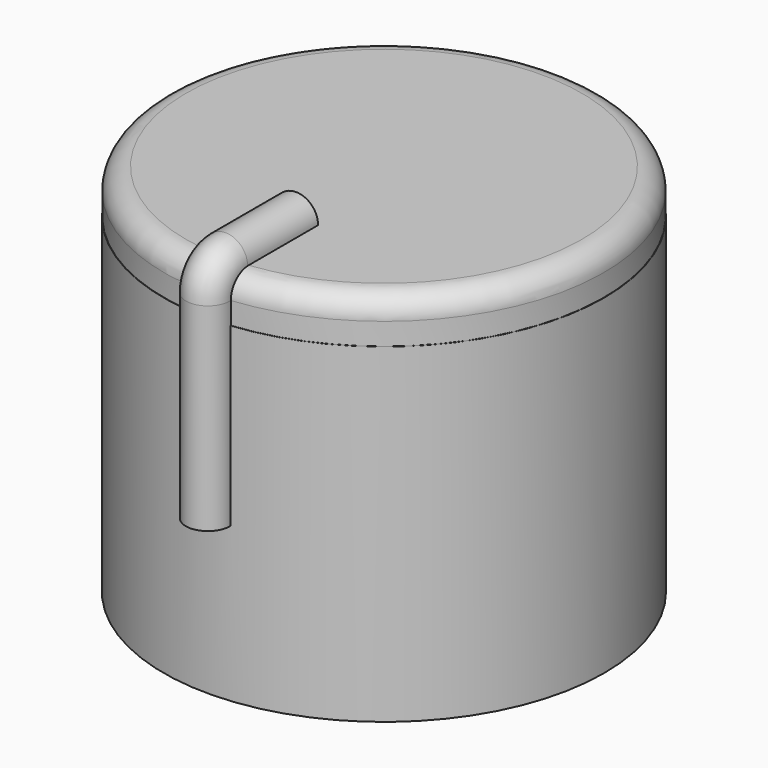
from build123d import *

# Parameters (mm, degrees)
F0_R     = 10
F1_DEPTH = 15
F2_R     = 9.9864299767
F9_DEPTH = 2
F3_R     = 1
F4_SIZE  = 0.2
F7_R     = 1


with BuildPart() as f1:
    # F0 (on Top) → F1 (new body)
    with BuildSketch(Plane.XY):
        Circle(F0_R)
        with BuildLine():
            ThreePointArc((-2.2405356502, -2.01), (0, 3.01), (2.2405356502, -2.01))
            Line((2.2405356502, -2.01), (-2.2405356502, -2.01))
        make_face(mode=Mode.SUBTRACT)
    extrude(amount=F1_DEPTH)

    # F2 (on face) → F9 (join)
    with BuildSketch(Plane.XY.offset(15)):
        Circle(F2_R)
        with BuildLine():
            Line((2.2405356502, -2.01), (-2.2405356502, -2.01))
            ThreePointArc((-2.2405356502, -2.01), (0, 3.01), (2.2405356502, -2.01))
        make_face(mode=Mode.SUBTRACT)
        Circle(F2_R)
    extrude(amount=F9_DEPTH)

    # F3
    f3_edges = [f1.edges().sort_by_distance(p)[0] for p in [
        (-9.98643, 0, 17),
    ]]
    fillet(f3_edges, radius=F3_R)

    # F4
    f4_edges = [f1.edges().sort_by_distance(p)[0] for p in [
        (0, 3.01, 0),
        (0, -2.01, 0),
    ]]
    chamfer(f4_edges, length=F4_SIZE)

    # F8: sweep along a path in F5
    with BuildLine(Plane.YZ) as f8_path:
        Line((-9.9864299767, 7), (-9.9864299767, 16))
        ThreePointArc((-9.9864299767, 16), (-9.6935367579, 16.7071067812), (-8.9864299767, 17))
        Line((-8.9864299767, 17), (-4.9864299767, 17))
    # F7 (on line) → F8 (sweep)
    with BuildSketch(Plane(origin=(0, 0, 7), x_dir=(1, 0, 0), z_dir=(0, 0, -1))):
        with Locations((0, 9.9864299767)):
            Circle(F7_R)
    sweep(path=f8_path.line)


solid = f1.part
